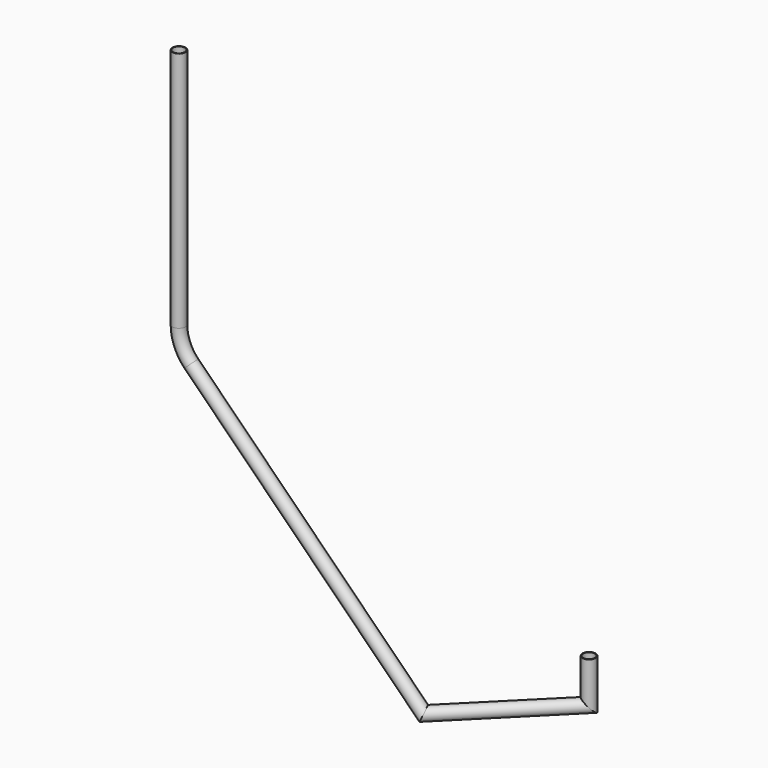
from build123d import *

# Parameters (mm, degrees)
F5_R   = 7.5
F5_R_2 = 6.75


with BuildPart() as f6:
    # F6: sweep along a path in F0, F2, F4
    with BuildLine(Plane.XZ) as f6_path:
        Line((0, 0), (0, -279.2893218813))
        ThreePointArc((0, -279.2893218813), (3.8060233744, -298.4234934996), (14.6446609407, -314.6446609407))
        Line((14.6446609407, -314.6446609407), (282.8427124746, -582.8427124746))
    with BuildLine(Plane.XY.offset(-582.8427124746)) as f6_path_2:
        Line((282.8427124746, 0), (388.9087296526, 106.066017178))
    with BuildLine(Plane.XZ.offset(-106.066017178)) as f6_path_3:
        Line((388.9087296526, -582.8427124746), (388.9087296526, -532.8427124746))
    # F5 (on Top) → F6 (sweep)
    with BuildSketch(Plane.XY):
        Circle(F5_R)
        Circle(F5_R_2, mode=Mode.SUBTRACT)
    sweep(path=f6_path.line + f6_path_2.line + f6_path_3.line, transition=Transition.RIGHT)


solid = f6.part
